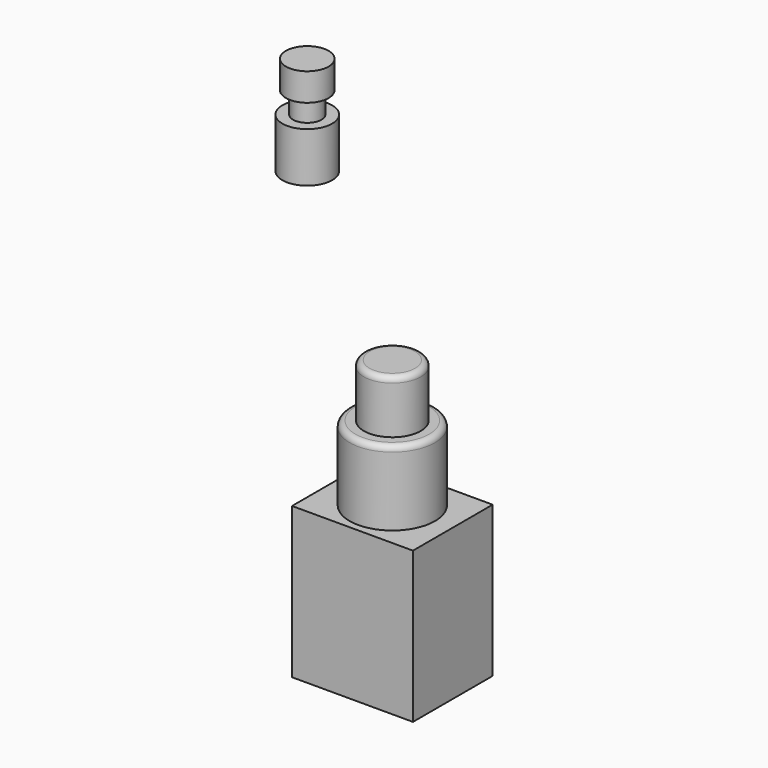
from build123d import *

# Parameters (mm, degrees)
F0_R     = 3
F0_R_2   = 2
F1_DEPTH = 3.9
F2_DEPTH = 6.9
F3_START = -6.9
F0_R_3   = 3.5
F3_DEPTH = 7
F4_R     = 4
F5_DEPTH = 7.5
F6_START = -7.5
F4_R_2   = 6
F6_DEPTH = 10.5
F7_START = -18
F4_W     = 17
F4_H     = 14
F7_DEPTH = 21.2
F8_R     = 0.8


with BuildPart() as f1:
    # F0 (on Top) → F1 (new body)
    with BuildSketch(Plane.XY):
        with Locations((-52.0235921488, 0)):
            Circle(F0_R)
        with Locations((-52.0235921488, 0)):
            Circle(F0_R_2, mode=Mode.SUBTRACT)
        with Locations((-52.0235921488, 0)):
            Circle(F0_R_2)
    extrude(amount=-F1_DEPTH)

    # F0 (on Top) → F2 (join)
    with BuildSketch(Plane.XY):
        with Locations((-52.0235921488, 0)):
            Circle(F0_R_2)
    extrude(amount=-F2_DEPTH)

    # F0 (on Top) → F3 (join)
    with BuildSketch(Plane.XY.offset(F3_START)):
        with Locations((-52.0235921488, 0)):
            Circle(F0_R_3)
        with Locations((-52.0235921488, 0)):
            Circle(F0_R, mode=Mode.SUBTRACT)
        with Locations((-52.0235921488, 0)):
            Circle(F0_R)
        with Locations((-52.0235921488, 0)):
            Circle(F0_R_2, mode=Mode.SUBTRACT)
        with Locations((-52.0235921488, 0)):
            Circle(F0_R_2)
    extrude(amount=-F3_DEPTH)


with BuildPart() as f5:
    # F4 (on Top) → F5 (new body)
    with BuildSketch(Plane.XY):
        with Locations((0, -50.0788018107)):
            Circle(F4_R)
    extrude(amount=-F5_DEPTH)

    # F4 (on Top) → F6 (join)
    with BuildSketch(Plane.XY.offset(F6_START)):
        with Locations((0, -50.0788018107)):
            Circle(F4_R_2)
        with Locations((0, -50.0788018107)):
            Circle(F4_R, mode=Mode.SUBTRACT)
        with Locations((0, -50.0788018107)):
            Circle(F4_R)
    extrude(amount=-F6_DEPTH)

    # F4 (on Top) → F7 (join)
    with BuildSketch(Plane.XY.offset(F7_START)):
        with Locations((0, -50.0788018107)):
            Rectangle(F4_W, F4_H)
        with Locations((0, -50.0788018107)):
            Circle(F4_R_2, mode=Mode.SUBTRACT)
        with Locations((0, -50.0788018107)):
            Circle(F4_R_2)
        with Locations((0, -50.0788018107)):
            Circle(F4_R, mode=Mode.SUBTRACT)
        with Locations((0, -50.0788018107)):
            Circle(F4_R)
    extrude(amount=-F7_DEPTH)

    # F8
    f8_edges = [f5.edges().sort_by_distance(p)[0] for p in [
        (-6, -50.078802, -7.5),
        (-4, -50.078802, 0),
    ]]
    fillet(f8_edges, radius=F8_R)


solid = Compound([f1.part, f5.part])
